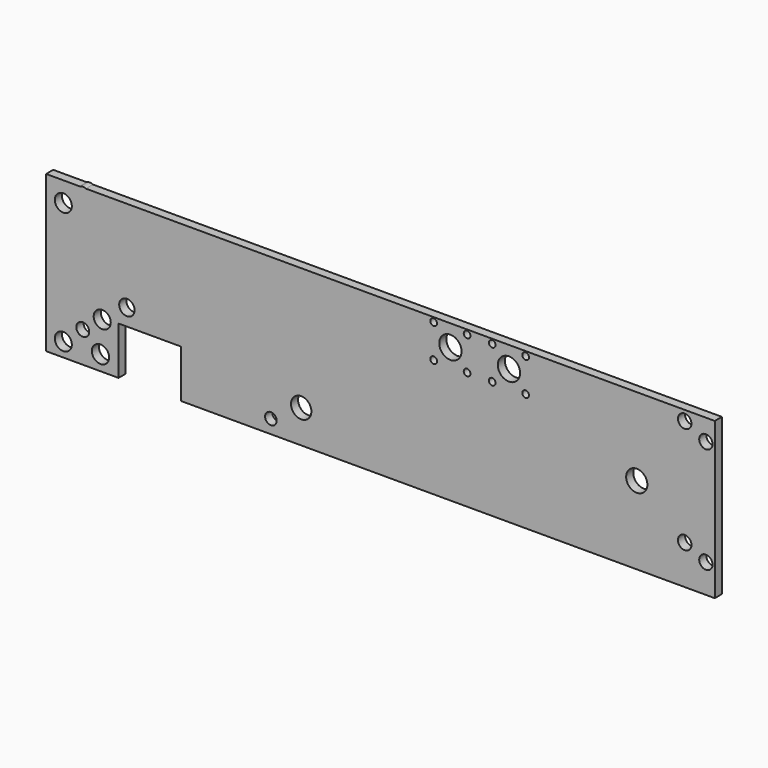
from build123d import *

# Parameters (mm, degrees)
F0_R     = 7.6537390816
F0_R_2   = 7.7611937188
F0_R_3   = 5.768928847
F0_R_4   = 5.2063685011
F0_R_5   = 9.1585436949
F0_R_6   = 7.6537362484
F0_R_7   = 6.909209466
F0_R_8   = 6
F0_R_9   = 6.061699949
F0_R_10  = 9.524
F0_R_11  = 3.0308412697
F0_R_12  = 10
F1_DEPTH = 8


with BuildPart() as f1:
    # F0 (on Front) → F1 (new body)
    with BuildSketch(Plane.XZ):
        with BuildLine():
            Line((500.7482528687, -20.8750167525), (500.7482528687, 119.1249832475))
            Line((500.7482528687, 119.1249832475), (-63.6194095638, 119.1249832475))
            ThreePointArc((-63.6194095638, 119.1249832475), (-61.3901100274, 117.0030250607), (-60.5691185382, 114.0368059278))
            ThreePointArc((-60.5691185382, 114.0368059278), (-69.3042665181, 109.0888685699), (-69.0566852066, 119.1249832475))
            Line((-69.0566852066, 119.1249832475), (-99.2517471313, 119.1249832475))
            Line((-99.2517471313, 119.1249832475), (-99.2517471313, -20.8750167525))
            Line((-99.2517471313, -20.8750167525), (-34.2517471313, -20.8750167525))
            Line((-34.2517471313, -20.8750167525), (-34.2517471313, 22.1249832475))
            Line((-34.2517471313, 22.1249832475), (21.7482528687, 22.1249832475))
            Line((21.7482528687, 22.1249832475), (21.7482528687, -20.8750167525))
            Line((21.7482528687, -20.8750167525), (500.7482528687, -20.8750167525))
        make_face()
        with Locations((-83.8007479906, -8.2048225315)):
            Circle(F0_R, mode=Mode.SUBTRACT)
        with Locations((-50.4275932908, -7.4259503745)):
            Circle(F0_R_2, mode=Mode.SUBTRACT)
        with Locations((-66.3380473852, 6.9793784816)):
            Circle(F0_R_3, mode=Mode.SUBTRACT)
        with Locations((102.4680286646, -8.5901357234)):
            Circle(F0_R_4, mode=Mode.SUBTRACT)
        with Locations((129.6322196722, 8.8725611567)):
            Circle(F0_R_5, mode=Mode.SUBTRACT)
        with Locations((-48.8753542304, 20.5143652856)):
            Circle(F0_R_6, mode=Mode.SUBTRACT)
        with Locations((-26.7559364438, 37.2009426355)):
            Circle(F0_R_7, mode=Mode.SUBTRACT)
        with Locations((492.7482528687, 4.9516526193)):
            Circle(F0_R_8, mode=Mode.SUBTRACT)
        with Locations((473.7482528687, 14.3054015934)):
            Circle(F0_R_9, mode=Mode.SUBTRACT)
        with Locations((430.7482528687, 49.1249832475)):
            Circle(F0_R_10, mode=Mode.SUBTRACT)
        with Locations((-83.8007479906, 101.2308299541)):
            Circle(F0_R, mode=Mode.SUBTRACT)
        with Locations((248.5129094124, 85.1249832475)):
            Circle(F0_R_11, mode=Mode.SUBTRACT)
        with Locations((263.5129094124, 100.1249832475)):
            Circle(F0_R_12, mode=Mode.SUBTRACT)
        with Locations((278.5129094124, 85.1249832475)):
            Circle(F0_R_11, mode=Mode.SUBTRACT)
        with Locations((301.0329669538, 85.1249832475)):
            Circle(F0_R_11, mode=Mode.SUBTRACT)
        with Locations((331.0329669538, 85.1249832475)):
            Circle(F0_R_11, mode=Mode.SUBTRACT)
        with Locations((316.0329669538, 100.1249832475)):
            Circle(F0_R_12, mode=Mode.SUBTRACT)
        with Locations((248.5129094124, 115.1249832475)):
            Circle(F0_R_11, mode=Mode.SUBTRACT)
        with Locations((278.5129094124, 115.1249832475)):
            Circle(F0_R_11, mode=Mode.SUBTRACT)
        with Locations((301.0329669538, 115.1249832475)):
            Circle(F0_R_11, mode=Mode.SUBTRACT)
        with Locations((331.0329669538, 115.1249832475)):
            Circle(F0_R_11, mode=Mode.SUBTRACT)
        with Locations((492.7482528687, 100.1249832475)):
            Circle(F0_R_8, mode=Mode.SUBTRACT)
        with Locations((473.7482528687, 110.1562082767)):
            Circle(F0_R_9, mode=Mode.SUBTRACT)
        with BuildLine():
            ThreePointArc((-60.5691185382, 114.0368059278), (-61.3901100274, 117.0030250607), (-63.6194095638, 119.1249832475))
            Line((-63.6194095638, 119.1249832475), (-69.0566852066, 119.1249832475))
            ThreePointArc((-69.0566852066, 119.1249832475), (-69.3042665181, 109.0888685699), (-60.5691185382, 114.0368059278))
        make_face()
        with BuildLine():
            Line((-69.0566852066, 119.1249832475), (-63.6194095638, 119.1249832475))
            ThreePointArc((-63.6194095638, 119.1249832475), (-66.3380473852, 119.8057347747), (-69.0566852066, 119.1249832475))
        make_face()
    extrude(amount=F1_DEPTH)


solid = f1.part
